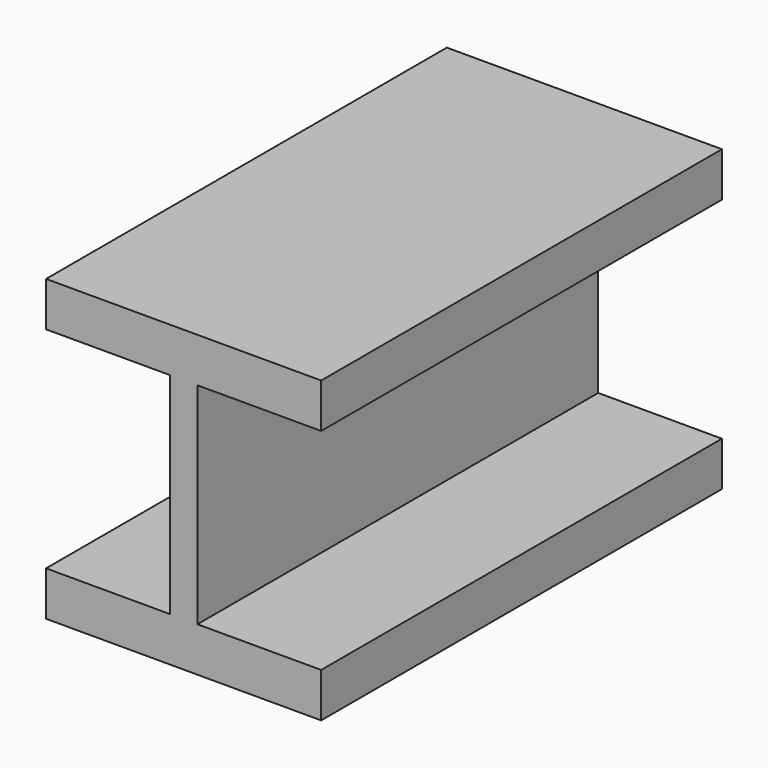
from build123d import *

# Parameters (mm, degrees)
F0_W     = 42.037
F0_H     = 320.04
F1_DEPTH = 762


with BuildPart() as f1:
    # F0 (on Front) → F1 (new body)
    with BuildSketch(Plane.XZ):
        Polygon((-209.2325, 160.02), (-21.0185, 160.02), (21.0185, 160.02), (209.2325, 160.02), (209.2325, 227.584), (-209.2325, 227.584), align=None)
        Rectangle(F0_W, F0_H)
        Polygon((21.0185, -160.02), (-21.0185, -160.02), (-209.2325, -160.02), (-209.2325, -227.584), (209.2325, -227.584), (209.2325, -160.02), align=None)
    extrude(amount=F1_DEPTH)


solid = f1.part
